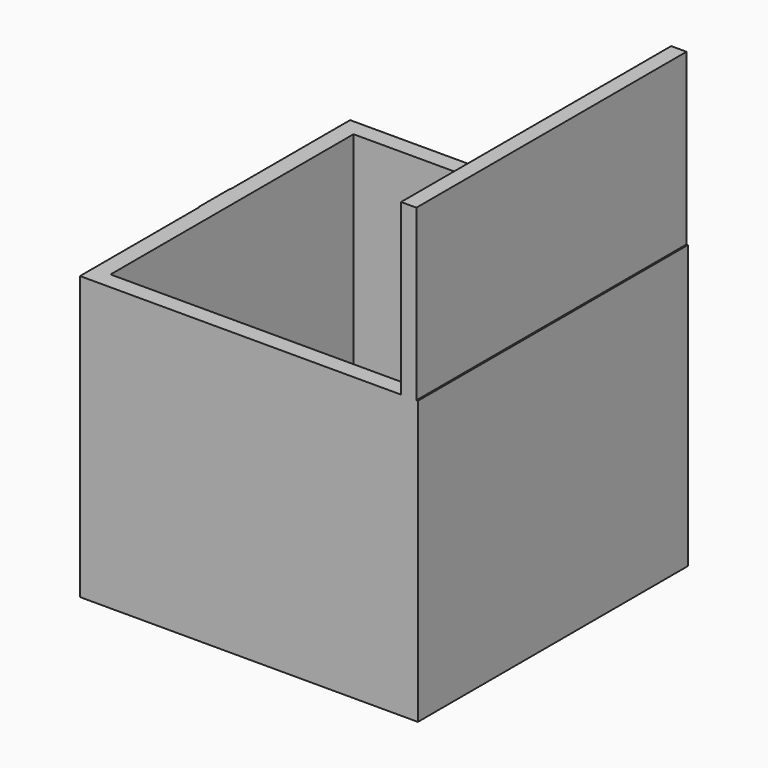
from build123d import *

# Parameters (mm, degrees)
F0_W     = 151.8304795027
F0_H     = 151.7131924629
F1_DEPTH = 127
F2_T     = -7.62
F3_W     = 6.8829804659
F3_H     = 151.7131924629
F4_DEPTH = 76.2
F5_W     = 17.6434051245
F5_H     = 27.9590406418
F6_DEPTH = 0.254
F7_W     = 17.6434051245
F7_H     = 15.647560358
F8_DEPTH = 0.254


with BuildPart() as f1:
    # F0 (on Top) → F1 (new body)
    with BuildSketch(Plane.XY):
        Rectangle(F0_W, F0_H)
    extrude(amount=F1_DEPTH)

    # F2
    f2_openings = [f1.faces().sort_by_distance(p)[0] for p in [
        (0, 0, 127),
    ]]
    offset(amount=F2_T, openings=f2_openings)

    # F3 (on face) → F4 (join)
    with BuildSketch(Plane.XY.offset(127)):
        with Locations((71.7989727855, 0)):
            Rectangle(F3_W, F3_H)
    extrude(amount=F4_DEPTH)

    # F5 (on face) → F6 (join)
    with BuildSketch(Plane(origin=(-75.9152397513, 0, 0), x_dir=(0, -1, 0), z_dir=(-1, 0, 0))):
        with Locations((0, 113.0204796791)):
            Rectangle(F5_W, F5_H)
    extrude(amount=F6_DEPTH)

    # F7 (on face) → F8 (join)
    with BuildSketch(Plane(origin=(-76.1692397513, 0, 0), x_dir=(0, -1, 0), z_dir=(-1, 0, 0))):
        with Locations((0, 113.0204796791)):
            Rectangle(F7_W, F7_H)
    extrude(amount=F8_DEPTH)


solid = f1.part
